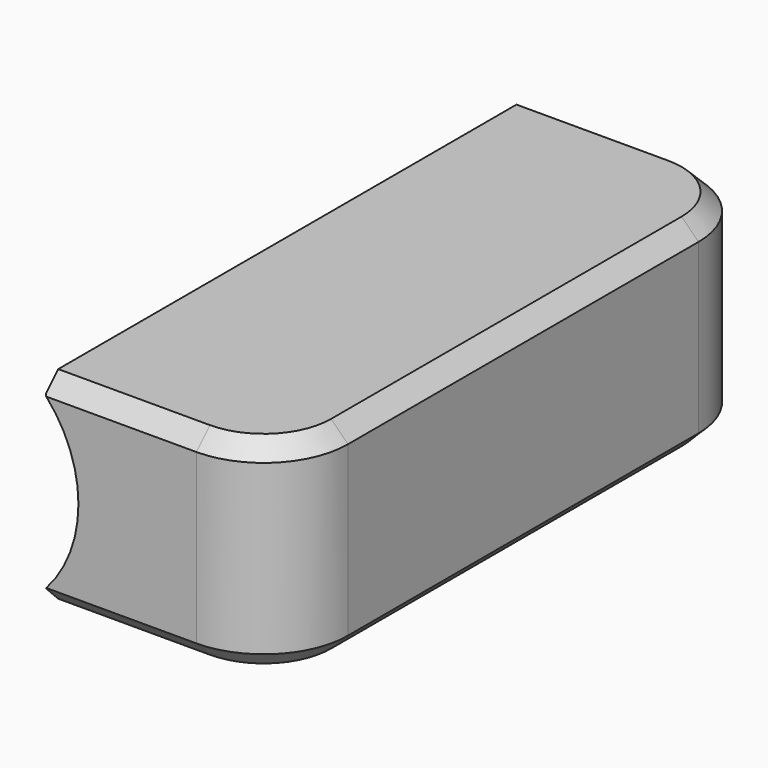
from build123d import *

# Parameters (mm, degrees)
F0_W      = 14
F0_H      = 36
F1_DEPTH  = 12
F2_R      = 7.5
F3_DEPTH  = 36.001
F5_W      = 28
F5_H      = 8
F6_DEPTH  = 11
F7_R      = 3
F8_R      = 5
F9_SIZE   = 1
F10_R     = 1
F11_DEPTH = 4
F12_R     = 1
F13_DEPTH = 5


with BuildPart() as f1:
    # F0 (on Top) → F1 (new body)
    with BuildSketch(Plane.XY):
        Rectangle(F0_W, F0_H)
    extrude(amount=F1_DEPTH)

    # F2 (on face) → F3 (cut, through all)
    with BuildSketch(Plane.XZ.offset(18)):
        with Locations((-12.5, 6)):
            Circle(F2_R)
    extrude(amount=-F3_DEPTH, mode=Mode.SUBTRACT)

    # F5 (on offset) → F6 (cut)
    with BuildSketch(Plane.YZ.offset(-7)):
        with Locations((0, 6)):
            Rectangle(F5_W, F5_H)
    extrude(amount=F6_DEPTH, mode=Mode.SUBTRACT)

    # F7
    f7_edges = [f1.edges().sort_by_distance(p)[0] for p in [
        (-1.077856, 14, 2),
        (-1.077856, -14, 10),
        (-1.077856, -14, 2),
        (-1.077856, 14, 10),
    ]]
    fillet(f7_edges, radius=F7_R)

    # F8
    f8_edges = [f1.edges().sort_by_distance(p)[0] for p in [
        (7, -18, 6),
        (7, 18, 6),
    ]]
    fillet(f8_edges, radius=F8_R)

    # F9
    f9_edges = [f1.edges().sort_by_distance(p)[0] for p in [
        (-2.5, -18, 0),
        (-2.5, -18, 12),
    ]]
    chamfer(f9_edges, length=F9_SIZE)

    # F10 (on face) → F11 (cut, through all)
    with BuildSketch(Plane(origin=(0, 18, 0), x_dir=(-1, 0, 0), z_dir=(0, 1, 0))):
        with Locations((0, 6)):
            Circle(F10_R)
    extrude(amount=-F11_DEPTH, mode=Mode.SUBTRACT)

    # F12 (on offset) → F13 (cut)
    with BuildSketch(Plane.YZ.offset(-7)):
        with Locations((-16, 4)):
            Circle(F12_R)
        with Locations((16, 2)):
            Circle(F12_R)
    extrude(amount=F13_DEPTH, mode=Mode.SUBTRACT)


solid = f1.part
